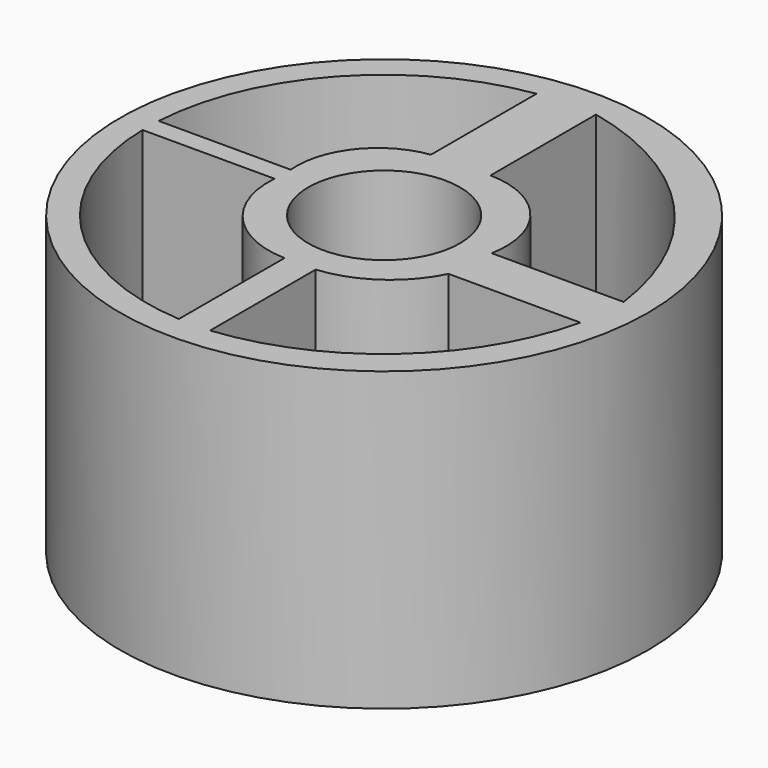
from build123d import *

# Parameters (mm, degrees)
F0_R     = 10.16
F1_DEPTH = 11.43
F2_R     = 2.921
F3_DEPTH = 25.4
F5_DEPTH = 25.4
F7_DEPTH = 25.4


with BuildPart() as f1:
    # F0 (on Top) → F1 (new body)
    with BuildSketch(Plane.XY):
        Circle(F0_R)
    extrude(amount=F1_DEPTH)

    # F2 (on face) → F3 (cut)
    with BuildSketch(Plane.XY.offset(11.43)):
        Circle(F2_R)
    extrude(amount=-F3_DEPTH, mode=Mode.SUBTRACT)

    # F4 (on face) → F5 (cut)
    with BuildSketch(Plane.XY.offset(11.43)):
        with BuildLine():
            Line((-0.600534, -9.124259), (-0.600534, -4.044259))
            ThreePointArc((-0.600534, -4.044259), (-3.151262, -2.859133), (-4.061856, -0.198015))
            Line((-4.061856, -0.198015), (-9.141856, -0.198015))
            ThreePointArc((-9.141856, -0.198015), (-6.606663, -6.321767), (-0.600534, -9.124259))
        make_face()
    extrude(amount=-F5_DEPTH, mode=Mode.SUBTRACT)

    # F6 (on face) → F7 (cut)
    with BuildSketch(Plane.XY.offset(11.43)):
        with BuildLine():
            ThreePointArc((3.891585, -1.767314), (2.542541, -3.334315), (0.600534, -4.044259))
            Line((0.600534, -4.044259), (0.600534, -9.124259))
            ThreePointArc((0.600534, -9.124259), (5.960667, -6.782305), (8.971585, -1.767314))
            Line((8.971585, -1.767314), (3.891585, -1.767314))
        make_face()
        with BuildLine():
            ThreePointArc((0.874891, 4.022049), (3.387925, 2.803616), (4.06352, 0.093727))
            Line((4.06352, 0.093727), (9.14352, 0.093727))
            ThreePointArc((9.14352, 0.093727), (6.432661, 5.904461), (0.874891, 9.102049))
            Line((0.874891, 9.102049), (0.874891, 4.022049))
        make_face()
        with BuildLine():
            ThreePointArc((-4.046591, 0.563985), (-3.387877, 2.800717), (-1.365609, 3.961452))
            Line((-1.365609, 3.961452), (-1.365609, 9.041452))
            ThreePointArc((-1.365609, 9.041452), (-6.7496, 6.179148), (-9.126591, 0.563985))
            Line((-9.126591, 0.563985), (-4.046591, 0.563985))
        make_face()
    extrude(amount=-F7_DEPTH, mode=Mode.SUBTRACT)


solid = f1.part
